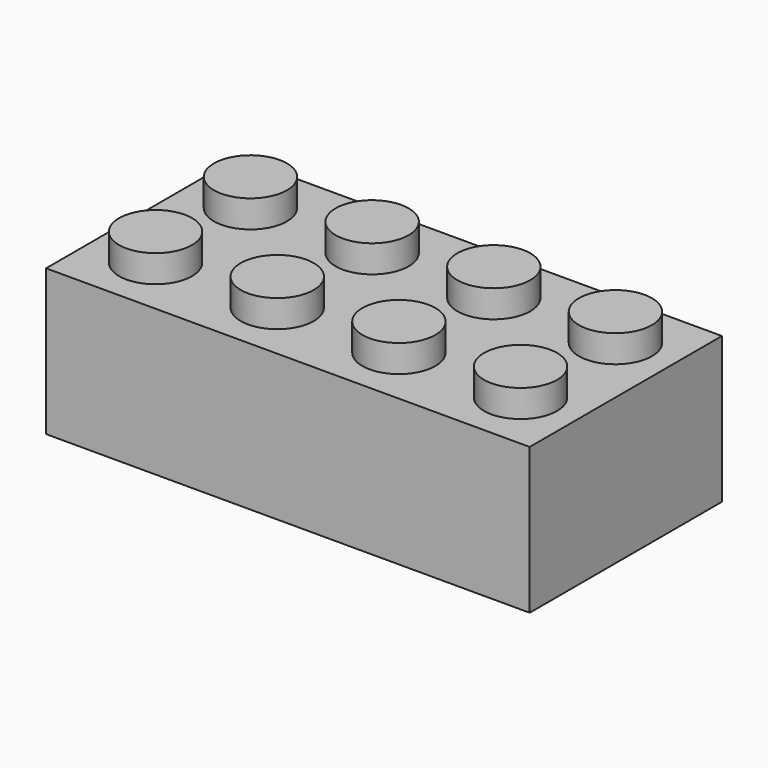
from build123d import *

# Parameters (mm, degrees)
SKETCH_W               = 31.8
SKETCH_H               = 15.8
PAD_DEPTH              = 9.6
SKETCH001_W            = 29.4
SKETCH001_H            = 13.4
POCKET_DEPTH           = 8.6
SKETCH002_R            = 2.4
PAD001_DEPTH           = 1.8
SKETCH003_R            = 3.255
PAD002_DEPTH           = 8.6
SKETCH004_R            = 2.4
POCKET001_DEPTH        = 8.6
LINEARPATTERN_COUNT    = 4
LINEARPATTERN_PITCH    = 8
LINEARPATTERN001_COUNT = 3
LINEARPATTERN001_PITCH = 8
LINEARPATTERN002_COUNT = 3
LINEARPATTERN002_PITCH = 8


with BuildPart() as part:
    # Sketch → Pad (new body)
    with BuildSketch(Plane.XY):
        Rectangle(SKETCH_W, SKETCH_H)
    extrude(amount=PAD_DEPTH)

    # Sketch001 (on Face5 of Pad) → Pocket (cut)
    with BuildSketch(Plane(origin=(0, 0, 0), x_dir=(1, 0, 0), z_dir=(0, 0, -1))):
        Rectangle(SKETCH001_W, SKETCH001_H)
    extrude(amount=-POCKET_DEPTH, mode=Mode.SUBTRACT)

    # Sketch002 (on Face5 of Pocket) → Pad001 (join)
    with BuildSketch(Plane.XY.offset(9.6)):
        with Locations((-11.9, 3.9)):
            Circle(SKETCH002_R)
        with Locations((-11.9, -3.9)):
            Circle(SKETCH002_R)
    pad001 = extrude(amount=PAD001_DEPTH)

    # Sketch003 (on Face13 of Pad001) → Pad002 (join)
    with BuildSketch(Plane(origin=(0, 0, 8.6), x_dir=(1, 0, 0), z_dir=(0, 0, -1))):
        with Locations((-8, 0)):
            Circle(SKETCH003_R)
    pad002 = extrude(amount=PAD002_DEPTH)

    # Sketch004 (on Face17 of Pad002) → Pocket001 (cut)
    with BuildSketch(Plane(origin=(0, 0, 0), x_dir=(1, 0, 0), z_dir=(0, 0, -1))):
        with Locations((-8, 0)):
            Circle(SKETCH004_R)
    pocket001 = extrude(amount=-POCKET001_DEPTH, mode=Mode.SUBTRACT)

    # LinearPattern: Pad001 ×4
    with Locations(*[(i * LINEARPATTERN_PITCH, 0, 0) for i in range(1, LINEARPATTERN_COUNT)]):
        add(pad001)

    # LinearPattern001: Pad002 ×3
    with Locations(*[(i * LINEARPATTERN001_PITCH, 0, 0) for i in range(1, LINEARPATTERN001_COUNT)]):
        add(pad002)

    # LinearPattern002: Pocket001 ×3
    with Locations(*[(i * LINEARPATTERN002_PITCH, 0, 0) for i in range(1, LINEARPATTERN002_COUNT)]):
        add(pocket001, mode=Mode.SUBTRACT)


solid = part.part
